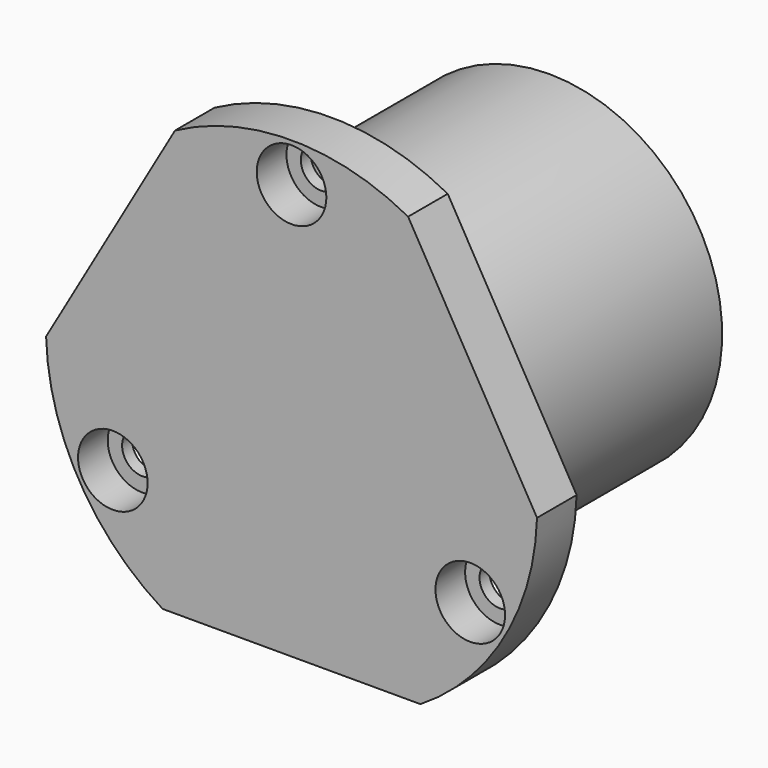
from build123d import *

# Parameters (mm, degrees)
F3_D           = 6.6
F3_CBORE_D     = 11.25
F3_CBORE_DEPTH = 6
F5_DEPTH       = 52.071


with BuildPart() as f1:
    # F0 (on Right) → F1 (revolve)
    with BuildSketch(Plane.YZ):
        Polygon((-52.07, 0), (0, 0), (0, 27.94), (-44.069, 27.94), (-44.069, 39.6875), (-52.07, 39.6875), align=None)
    revolve(axis=Axis((0, -34.9322228922, 0), (0, 1, 0)))

    # F3 (through all)
    with Locations(Plane.XZ.offset(52.07)):
        with Locations((0, 33.3502), (-28.8821204213, -16.6751), (28.8821204213, -16.6751)):
            CounterBoreHole(F3_D / 2, F3_CBORE_D / 2, F3_CBORE_DEPTH)

    # F4 (on face) → F5 (cut, through all)
    with BuildSketch(Plane.XZ.offset(52.07)):
        with BuildLine():
            ThreePointArc((39.6875, 0), (34.0797569223, 20.3388255405), (18.8412474335, 34.9300021672))
            Line((18.8412474335, 34.9300021672), (39.6708929478, -1.1480021672))
            ThreePointArc((39.6708929478, -1.1480021672), (39.6833480198, -0.57406114), (39.6875, 0))
        make_face()
        with BuildLine():
            Line((-39.6708929478, -1.1480021672), (-18.8412474335, 34.9300021672))
            ThreePointArc((-18.8412474335, 34.9300021672), (-34.3703832127, 19.84375), (-39.6708929478, -1.1480021672))
        make_face()
        with BuildLine():
            ThreePointArc((-20.8296455143, -33.782), (0, -39.6875), (20.8296455143, -33.782))
            Line((20.8296455143, -33.782), (-20.8296455143, -33.782))
        make_face()
    extrude(amount=-F5_DEPTH, mode=Mode.SUBTRACT)


solid = f1.part
